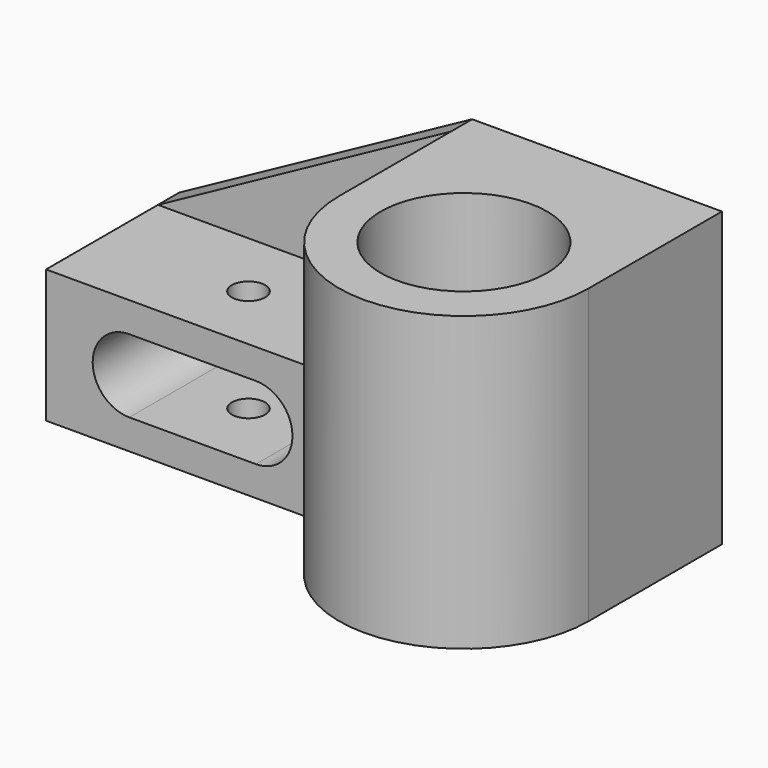
from build123d import *

# Parameters (mm, degrees)
PAD_DEPTH     = 44
SKETCH004_W   = 50
SKETCH004_H   = 40
PAD001_DEPTH  = 88
SKETCH005_R   = 25
HOLE_DEPTH    = 88
POCKET_DEPTH  = 50
SKETCH007_R   = 5
HOLE001_DEPTH = 40
PAD002_DEPTH  = 8


with BuildPart() as part:
    # Sketch → Pad (new body, symmetric)
    with BuildSketch(Plane.XY):
        with BuildLine():
            Line((0, 0), (75, 0))
            Line((75, 0), (75, -50))
            ThreePointArc((0, -50), (37.5, -87.499933), (75, -50))
            Line((0, 0), (0, -50))
        make_face()
    extrude(amount=PAD_DEPTH, both=True)

    # Sketch004 (on Face4 of Pad) → Pad001 (join)
    with BuildSketch(Plane(origin=(0, 0, 0), x_dir=(0, -1, 0), z_dir=(-1, 0, 0))):
        with Locations((24.999986, -24)):
            Rectangle(SKETCH004_W, SKETCH004_H)
    extrude(amount=PAD001_DEPTH)

    # Sketch005 (on Face6 of Pad001) → Hole (cut)
    with BuildSketch(Plane.XY.offset(44)):
        with Locations((37.5, -50)):
            Circle(SKETCH005_R)
    extrude(amount=-HOLE_DEPTH, mode=Mode.SUBTRACT)

    # Sketch006 (on Face10 of Hole) → Pocket (cut)
    with BuildSketch(Plane.XZ.offset(49.999986)):
        with BuildLine():
            ThreePointArc((-25.000028, -35), (-14, -24.000014), (-25, -13))
            Line((-63, -13), (-25, -13))
            ThreePointArc((-63, -13), (-74, -24), (-63, -35))
            Line((-63, -35), (-25.000028, -35))
        make_face()
    extrude(amount=-POCKET_DEPTH, mode=Mode.SUBTRACT)

    # Sketch007 (on Face9 of Pocket) → Hole001 (cut)
    with BuildSketch(Plane.XY.offset(-4)):
        with Locations((-44, -29)):
            Circle(SKETCH007_R)
    extrude(amount=-HOLE001_DEPTH, mode=Mode.SUBTRACT)

    # Sketch008 (on Face1 of Hole001) → Pad002 (join)
    with BuildSketch(Plane(origin=(0, 0, 0), x_dir=(-1, 0, 0), z_dir=(0, 1, 0))):
        Polygon((0, -4), (88, -4), (0, 44), align=None)
    extrude(amount=-PAD002_DEPTH)


solid = part.part
